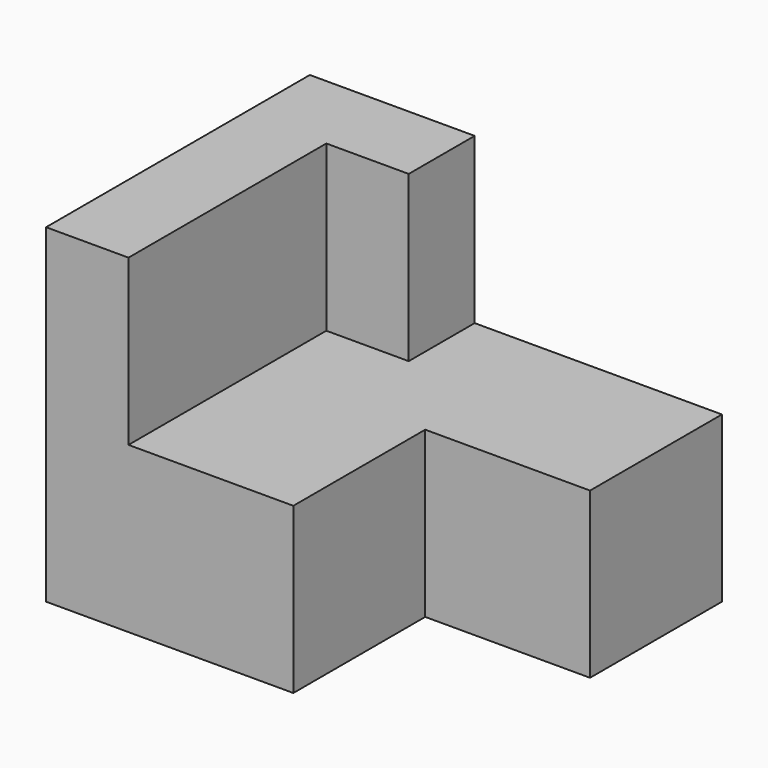
from build123d import *

# Parameters (mm, degrees)
F0_W     = 5
F0_H     = 4
F1_DEPTH = 2
F2_W     = 2
F2_H     = 2
F3_DEPTH = 2
F4_W     = 1
F4_H     = 4
F5_DEPTH = 2
F6_W     = 1
F6_H     = 1
F7_DEPTH = 2


with BuildPart() as f1:
    # F0 (on Top) → F1 (new body)
    with BuildSketch(Plane.XY):
        with Locations((2.5, 2)):
            Rectangle(F0_W, F0_H)
    extrude(amount=F1_DEPTH)

    # F2 (on face) → F3 (cut)
    with BuildSketch(Plane.XY.offset(2)):
        with Locations((4, 1)):
            Rectangle(F2_W, F2_H)
    extrude(amount=-F3_DEPTH, mode=Mode.SUBTRACT)

    # F4 (on face) → F5 (join)
    with BuildSketch(Plane.XY.offset(2)):
        with Locations((0.5, 2)):
            Rectangle(F4_W, F4_H)
    extrude(amount=F5_DEPTH)

    # F6 (on face) → F7 (join)
    with BuildSketch(Plane.XY.offset(2)):
        with Locations((1.5, 3.5)):
            Rectangle(F6_W, F6_H)
    extrude(amount=F7_DEPTH)


solid = f1.part
